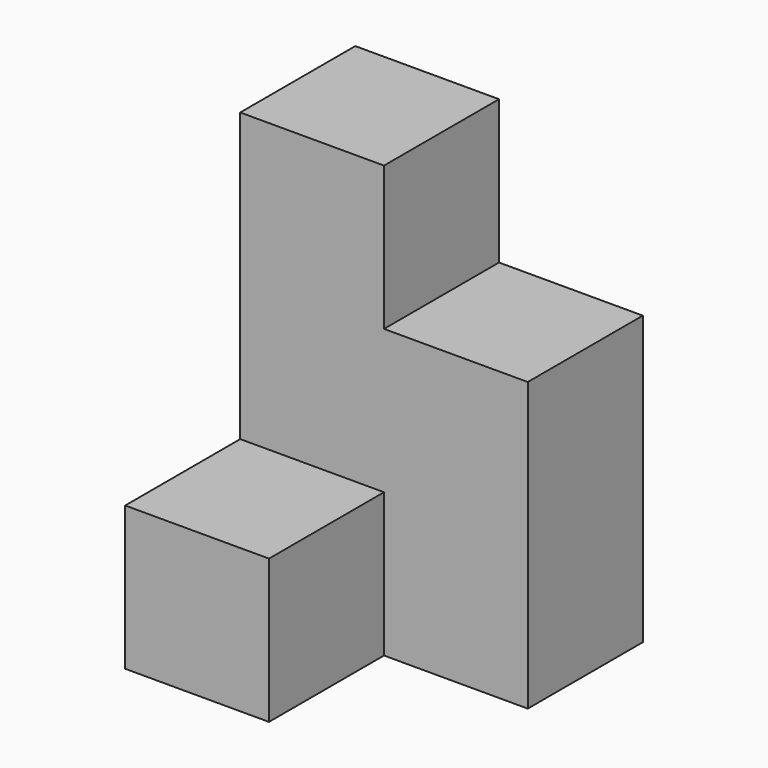
from build123d import *

# Parameters (mm, degrees)
F0_W      = 19.05
F0_H      = 19.05
F1_DEPTH  = 19.05
F2_W      = 19.05
F2_H      = 19.05
F3_DEPTH  = 19.05
F4_W      = 19.05
F4_H      = 19.05
F5_DEPTH  = 19.05
F6_W      = 19.05
F6_H      = 19.05
F7_DEPTH  = 19.05
F8_W      = 19.05
F8_H      = 19.05
F9_DEPTH  = 19.05
F10_W     = 19.05
F10_H     = 19.05
F11_DEPTH = 19.05


with BuildPart() as f1:
    # F0 (on Top) → F1 (new body)
    with BuildSketch(Plane.XY):
        with Locations((-61.260683, -59.837839)):
            Rectangle(F0_W, F0_H)
    extrude(amount=F1_DEPTH)

    # F2 (on face) → F3 (join)
    with BuildSketch(Plane.YZ.offset(-51.735683)):
        with Locations((-59.837839, 9.525)):
            Rectangle(F2_W, F2_H)
    extrude(amount=F3_DEPTH)



with BuildPart() as f5:
    # F4 (on face) → F5 (new body)
    with BuildSketch(Plane.XY.offset(38.1)):
        with Locations((-61.260683, -59.837839)):
            Rectangle(F4_W, F4_H)
    extrude(amount=F5_DEPTH)


with BuildPart() as f1_1:
    add(f1.part)

    add(f5.part)  # F7 merges F5
    # F6 (on face) → F7 (join)
    with BuildSketch(Plane.YZ.offset(-51.735683)):
        with Locations((-59.837839, 28.575)):
            Rectangle(F6_W, F6_H)
    extrude(amount=F7_DEPTH)

    # F8 (on face) → F9 (join)
    with BuildSketch(Plane.XY.offset(19.05)):
        with Locations((-61.260683, -59.837839)):
            Rectangle(F8_W, F8_H)
    extrude(amount=F9_DEPTH)

    # F10 (on face) → F11 (join)
    with BuildSketch(Plane.XZ.offset(69.362839)):
        with Locations((-61.260683, 9.525)):
            Rectangle(F10_W, F10_H)
    extrude(amount=F11_DEPTH)


solid = f1_1.part
